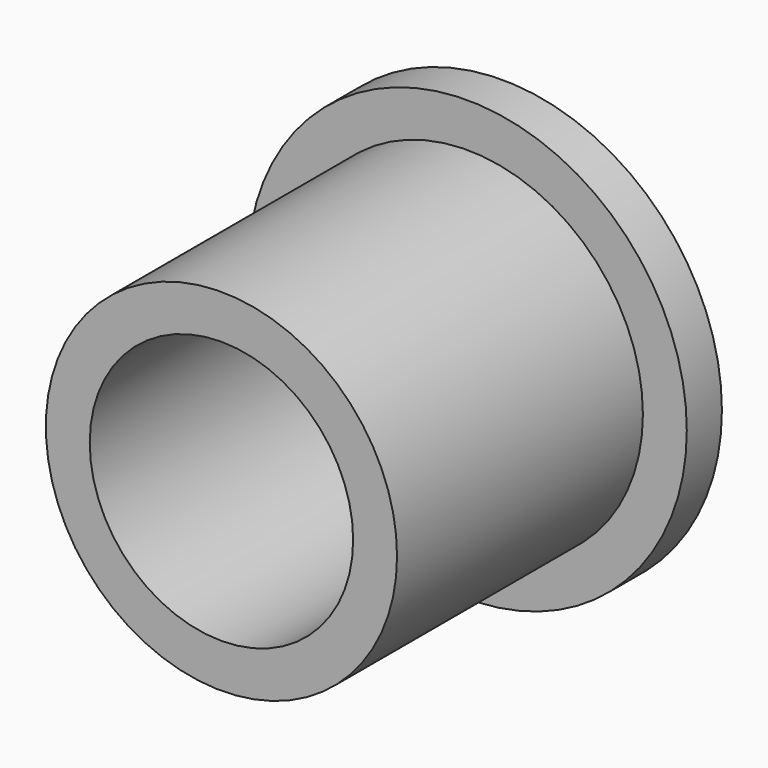
from build123d import *

# Parameters (mm, degrees)
F0_R     = 15.875
F3_DEPTH = 3.175
F1_R     = 12.7
F4_DEPTH = 25.4
F2_R     = 9.525
F5_DEPTH = 25.4


with BuildPart() as f3:
    # F0 (on Front) → F3 (new body)
    with BuildSketch(Plane.XZ):
        Circle(F0_R)
    extrude(amount=F3_DEPTH)

    # F1 (on Front) → F4 (join)
    with BuildSketch(Plane.XZ):
        Circle(F1_R)
    extrude(amount=F4_DEPTH)

    # F2 (on Front) → F5 (cut)
    with BuildSketch(Plane.XZ):
        Circle(F2_R)
    extrude(amount=F5_DEPTH, mode=Mode.SUBTRACT)


solid = f3.part
